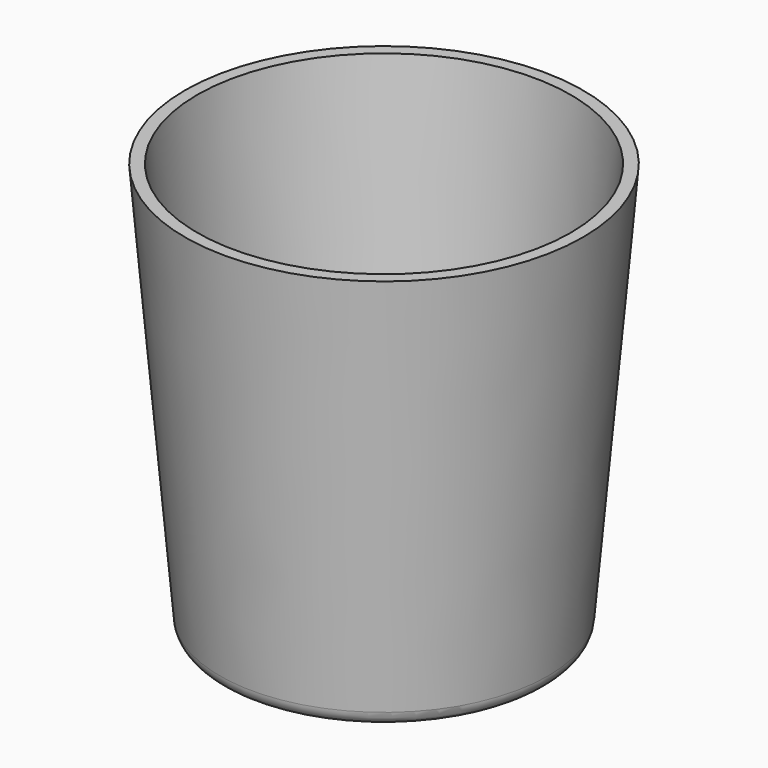
from build123d import *

# Parameters (mm, degrees)
F1_T = -1.5
F2_R = 5
F4_R = 2


with BuildPart() as f3:
    # F0 (on Front) → F3 (revolve)
    with BuildSketch(Plane.XZ):
        Polygon((-20, 0), (0, 0), (0, 50.6066906631), (-24.4275117316, 50.6066906631), align=None)
    revolve(axis=Axis((0, 0, 25.3033453315), (0, 0, -1)))

    # F1
    f1_openings = [f3.faces().sort_by_distance(p)[0] for p in [
        (0, 0, 50.606691),
    ]]
    offset(amount=F1_T, openings=f1_openings)

    # F2
    f2_edges = [f3.edges().sort_by_distance(p)[0] for p in [
        (18.625503, 0, 1.5),
    ]]
    fillet(f2_edges, radius=F2_R)

    # F4
    f4_edges = [f3.edges().sort_by_distance(p)[0] for p in [
        (20, 0, 0),
    ]]
    fillet(f4_edges, radius=F4_R)


solid = f3.part
